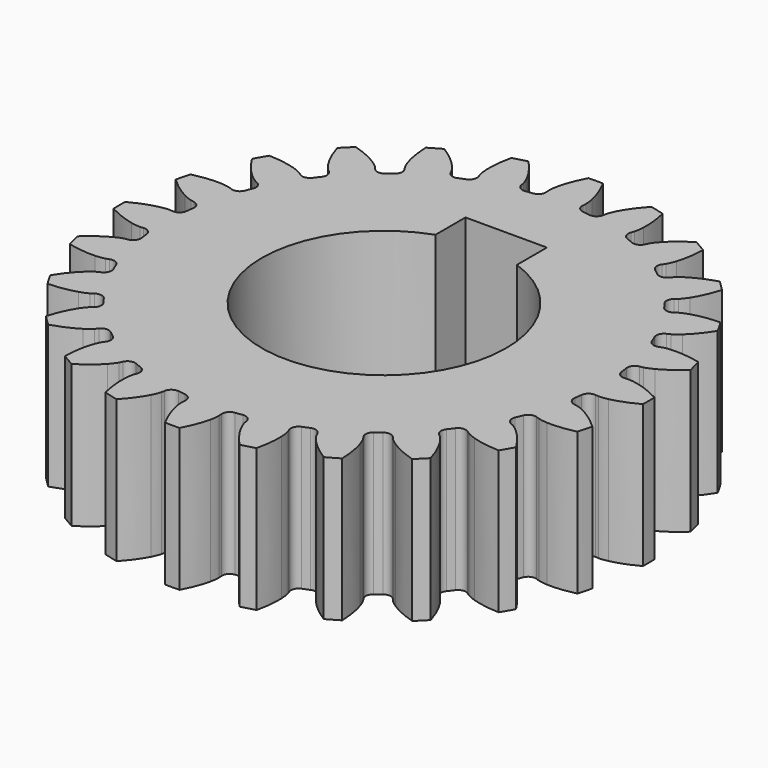
from build123d import *

# Parameters (mm, degrees)
PAD_DEPTH    = 7
POCKET_DEPTH = 7.001


with BuildPart() as part:
    # InvoluteGear → Pad (new body)
    with BuildSketch(Plane.XY):
        with BuildLine():
            Line((11.094087, -0.89338), (11.258987, -0.905908))
            add(Edge.make_bspline(
                [(11.258987, -0.905908), (11.309373, -0.907039), (11.461142, -0.904636), (11.714019, -0.851012)],
                knots=[0, 0, 0, 0, 1, 1, 1, 1], degree=3))
            add(Edge.make_bspline(
                [(11.714019, -0.851012), (12.016875, -0.785943), (12.453921, -0.648007), (12.996132, -0.35735)],
                knots=[0, 0, 0, 0, 1, 1, 1, 1], degree=3))
            ThreePointArc((12.996132, -0.35735), (13.000522, 0.000197), (12.995077, 0.35773))
            add(Edge.make_bspline(
                [(12.995077, 0.35773), (12.453921, 0.648007), (12.016875, 0.785943), (11.714019, 0.851012)],
                knots=[0, 0, 0, 0, 1, 1, 1, 1], degree=3))
            add(Edge.make_bspline(
                [(11.714019, 0.851012), (11.461142, 0.904636), (11.309373, 0.907039), (11.258987, 0.905908)],
                knots=[0, 0, 0, 0, 1, 1, 1, 1], degree=3))
            Line((11.258987, 0.905908), (11.094087, 0.89338))
            ThreePointArc((11.094087, 0.89338), (10.818411, 0.975916), (10.67963, 1.228005))
            ThreePointArc((10.67963, 1.228005), (10.658032, 1.403157), (10.633562, 1.57793))
            ThreePointArc((10.633562, 1.57793), (10.702369, 1.857349), (10.947289, 2.008422))
            Line((10.947289, 2.008422), (11.109812, 2.039001))
            add(Edge.make_bspline(
                [(11.109812, 2.039001), (11.158774, 2.050949), (11.30475, 2.09255), (11.535132, 2.209797)],
                knots=[0, 0, 0, 0, 1, 1, 1, 1], degree=3))
            add(Edge.make_bspline(
                [(11.535132, 2.209797), (11.810827, 2.351033), (12.19728, 2.597386), (12.645789, 3.018473)],
                knots=[0, 0, 0, 0, 1, 1, 1, 1], degree=3))
            ThreePointArc((12.645789, 3.018473), (12.557489, 3.364973), (12.459693, 3.708914))
            add(Edge.make_bspline(
                [(12.459693, 3.708914), (11.861848, 3.849238), (11.403993, 3.869359), (11.094616, 3.853825)],
                knots=[0, 0, 0, 0, 1, 1, 1, 1], degree=3))
            add(Edge.make_bspline(
                [(11.094616, 3.853825), (10.836476, 3.840174), (10.689256, 3.803213), (10.64088, 3.78908)],
                knots=[0, 0, 0, 0, 1, 1, 1, 1], degree=3))
            Line((10.64088, 3.78908), (10.484841, 3.7343))
            ThreePointArc((10.484841, 3.7343), (10.197197, 3.742673), (9.9979, 3.950253))
            ThreePointArc((9.9979, 3.950253), (9.931705, 4.113847), (9.862834, 4.276332))
            ThreePointArc((9.862834, 4.276332), (9.856977, 4.564038), (10.054452, 4.773353))
            Line((10.054452, 4.773353), (10.203522, 4.844954))
            add(Edge.make_bspline(
                [(10.203522, 4.844954), (10.247723, 4.869168), (10.377958, 4.947133), (10.570144, 5.120012)],
                knots=[0, 0, 0, 0, 1, 1, 1, 1], degree=3))
            add(Edge.make_bspline(
                [(10.570144, 5.120012), (10.799891, 5.327791), (11.109415, 5.66577), (11.433656, 6.188592)],
                knots=[0, 0, 0, 0, 1, 1, 1, 1], degree=3))
            ThreePointArc((11.433656, 6.188592), (11.258684, 6.500432), (11.075202, 6.807342))
            add(Edge.make_bspline(
                [(11.075202, 6.807342), (10.461409, 6.788151), (10.013948, 6.689085), (9.719133, 6.594007)],
                knots=[0, 0, 0, 0, 1, 1, 1, 1], degree=3))
            add(Edge.make_bspline(
                [(9.719133, 6.594007), (9.473322, 6.514009), (9.340685, 6.440205), (9.297615, 6.414032)],
                knots=[0, 0, 0, 0, 1, 1, 1, 1], degree=3))
            Line((9.297615, 6.414032), (9.161071, 6.320734))
            ThreePointArc((9.161071, 6.320734), (8.881061, 6.254374), (8.634829, 6.403299))
            ThreePointArc((8.634829, 6.403299), (8.528548, 6.544185), (8.41997, 6.683308))
            ThreePointArc((8.41997, 6.683308), (8.339849, 6.959695), (8.47642, 7.212989))
            Line((8.47642, 7.212989), (8.601879, 7.320732))
            add(Edge.make_bspline(
                [(8.601879, 7.320732), (8.638307, 7.355561), (8.743926, 7.464577), (8.884819, 7.681307)],
                knots=[0, 0, 0, 0, 1, 1, 1, 1], degree=3))
            add(Edge.make_bspline(
                [(8.884819, 7.681307), (9.05296, 7.941468), (9.264462, 8.348042), (9.442338, 8.936968)],
                knots=[0, 0, 0, 0, 1, 1, 1, 1], degree=3))
            ThreePointArc((9.442338, 8.936968), (9.192618, 9.192897), (8.935954, 9.44186))
            add(Edge.make_bspline(
                [(8.935954, 9.44186), (8.348042, 9.264462), (7.941468, 9.05296), (7.681307, 8.884819)],
                knots=[0, 0, 0, 0, 1, 1, 1, 1], degree=3))
            add(Edge.make_bspline(
                [(7.681307, 8.884819), (7.464577, 8.743926), (7.355561, 8.638307), (7.320732, 8.601879)],
                knots=[0, 0, 0, 0, 1, 1, 1, 1], degree=3))
            Line((7.320732, 8.601879), (7.212989, 8.47642))
            ThreePointArc((7.212989, 8.47642), (6.959695, 8.339849), (6.683308, 8.41997))
            ThreePointArc((6.683308, 8.41997), (6.544185, 8.528548), (6.403299, 8.634829))
            ThreePointArc((6.403299, 8.634829), (6.254374, 8.881061), (6.320734, 9.161071))
            Line((6.320734, 9.161071), (6.414032, 9.297615))
            add(Edge.make_bspline(
                [(6.414032, 9.297615), (6.440205, 9.340685), (6.514009, 9.473322), (6.594007, 9.719133)],
                knots=[0, 0, 0, 0, 1, 1, 1, 1], degree=3))
            add(Edge.make_bspline(
                [(6.594007, 9.719133), (6.689085, 10.013948), (6.788151, 10.461409), (6.807541, 11.076306)],
                knots=[0, 0, 0, 0, 1, 1, 1, 1], degree=3))
            ThreePointArc((6.807541, 11.076306), (6.500091, 11.258881), (6.187735, 11.432932))
            add(Edge.make_bspline(
                [(6.187735, 11.432932), (5.66577, 11.109415), (5.327791, 10.799891), (5.120012, 10.570144)],
                knots=[0, 0, 0, 0, 1, 1, 1, 1], degree=3))
            add(Edge.make_bspline(
                [(5.120012, 10.570144), (4.947133, 10.377958), (4.869168, 10.247723), (4.844954, 10.203522)],
                knots=[0, 0, 0, 0, 1, 1, 1, 1], degree=3))
            Line((4.844954, 10.203522), (4.773353, 10.054452))
            ThreePointArc((4.773353, 10.054452), (4.564038, 9.856977), (4.276332, 9.862834))
            ThreePointArc((4.276332, 9.862834), (4.113847, 9.931705), (3.950253, 9.9979))
            ThreePointArc((3.950253, 9.9979), (3.742673, 10.197197), (3.7343, 10.484841))
            Line((3.7343, 10.484841), (3.78908, 10.64088))
            add(Edge.make_bspline(
                [(3.78908, 10.64088), (3.803213, 10.689256), (3.840174, 10.836476), (3.853825, 11.094616)],
                knots=[0, 0, 0, 0, 1, 1, 1, 1], degree=3))
            add(Edge.make_bspline(
                [(3.853825, 11.094616), (3.869359, 11.403993), (3.849238, 11.861848), (3.708821, 12.460811)],
                knots=[0, 0, 0, 0, 1, 1, 1, 1], degree=3))
            ThreePointArc((3.708821, 12.460811), (3.364592, 12.557591), (3.017833, 12.644868))
            add(Edge.make_bspline(
                [(3.017833, 12.644868), (2.597386, 12.19728), (2.351033, 11.810827), (2.209797, 11.535132)],
                knots=[0, 0, 0, 0, 1, 1, 1, 1], degree=3))
            add(Edge.make_bspline(
                [(2.209797, 11.535132), (2.09255, 11.30475), (2.050949, 11.158774), (2.039001, 11.109812)],
                knots=[0, 0, 0, 0, 1, 1, 1, 1], degree=3))
            Line((2.039001, 11.109812), (2.008422, 10.947289))
            ThreePointArc((2.008422, 10.947289), (1.857349, 10.702369), (1.57793, 10.633562))
            ThreePointArc((1.57793, 10.633562), (1.403157, 10.658032), (1.228005, 10.67963))
            ThreePointArc((1.228005, 10.67963), (0.975916, 10.818411), (0.89338, 11.094087))
            Line((0.89338, 11.094087), (0.905908, 11.258987))
            add(Edge.make_bspline(
                [(0.905908, 11.258987), (0.907039, 11.309373), (0.904636, 11.461142), (0.851012, 11.714019)],
                knots=[0, 0, 0, 0, 1, 1, 1, 1], degree=3))
            add(Edge.make_bspline(
                [(0.851012, 11.714019), (0.785943, 12.016875), (0.648007, 12.453921), (0.35735, 12.996132)],
                knots=[0, 0, 0, 0, 1, 1, 1, 1], degree=3))
            ThreePointArc((0.35735, 12.996132), (-0.000197, 13.000522), (-0.35773, 12.995077))
            add(Edge.make_bspline(
                [(-0.35773, 12.995077), (-0.648007, 12.453921), (-0.785943, 12.016875), (-0.851012, 11.714019)],
                knots=[0, 0, 0, 0, 1, 1, 1, 1], degree=3))
            add(Edge.make_bspline(
                [(-0.851012, 11.714019), (-0.904636, 11.461142), (-0.907039, 11.309373), (-0.905908, 11.258987)],
                knots=[0, 0, 0, 0, 1, 1, 1, 1], degree=3))
            Line((-0.905908, 11.258987), (-0.89338, 11.094087))
            ThreePointArc((-0.89338, 11.094087), (-0.975916, 10.818411), (-1.228005, 10.67963))
            ThreePointArc((-1.228005, 10.67963), (-1.403157, 10.658032), (-1.57793, 10.633562))
            ThreePointArc((-1.57793, 10.633562), (-1.857349, 10.702369), (-2.008422, 10.947289))
            Line((-2.008422, 10.947289), (-2.039001, 11.109812))
            add(Edge.make_bspline(
                [(-2.039001, 11.109812), (-2.050949, 11.158774), (-2.09255, 11.30475), (-2.209797, 11.535132)],
                knots=[0, 0, 0, 0, 1, 1, 1, 1], degree=3))
            add(Edge.make_bspline(
                [(-2.209797, 11.535132), (-2.351033, 11.810827), (-2.597386, 12.19728), (-3.018473, 12.645789)],
                knots=[0, 0, 0, 0, 1, 1, 1, 1], degree=3))
            ThreePointArc((-3.018473, 12.645789), (-3.364973, 12.557489), (-3.708914, 12.459693))
            add(Edge.make_bspline(
                [(-3.708914, 12.459693), (-3.849238, 11.861848), (-3.869359, 11.403993), (-3.853825, 11.094616)],
                knots=[0, 0, 0, 0, 1, 1, 1, 1], degree=3))
            add(Edge.make_bspline(
                [(-3.853825, 11.094616), (-3.840174, 10.836476), (-3.803213, 10.689256), (-3.78908, 10.64088)],
                knots=[0, 0, 0, 0, 1, 1, 1, 1], degree=3))
            Line((-3.78908, 10.64088), (-3.7343, 10.484841))
            ThreePointArc((-3.7343, 10.484841), (-3.742673, 10.197197), (-3.950253, 9.9979))
            ThreePointArc((-3.950253, 9.9979), (-4.113847, 9.931705), (-4.276332, 9.862834))
            ThreePointArc((-4.276332, 9.862834), (-4.564038, 9.856977), (-4.773353, 10.054452))
            Line((-4.773353, 10.054452), (-4.844954, 10.203522))
            add(Edge.make_bspline(
                [(-4.844954, 10.203522), (-4.869168, 10.247723), (-4.947133, 10.377958), (-5.120012, 10.570144)],
                knots=[0, 0, 0, 0, 1, 1, 1, 1], degree=3))
            add(Edge.make_bspline(
                [(-5.120012, 10.570144), (-5.327791, 10.799891), (-5.66577, 11.109415), (-6.188592, 11.433656)],
                knots=[0, 0, 0, 0, 1, 1, 1, 1], degree=3))
            ThreePointArc((-6.188592, 11.433656), (-6.500432, 11.258684), (-6.807342, 11.075202))
            add(Edge.make_bspline(
                [(-6.807342, 11.075202), (-6.788151, 10.461409), (-6.689085, 10.013948), (-6.594007, 9.719133)],
                knots=[0, 0, 0, 0, 1, 1, 1, 1], degree=3))
            add(Edge.make_bspline(
                [(-6.594007, 9.719133), (-6.514009, 9.473322), (-6.440205, 9.340685), (-6.414032, 9.297615)],
                knots=[0, 0, 0, 0, 1, 1, 1, 1], degree=3))
            Line((-6.414032, 9.297615), (-6.320734, 9.161071))
            ThreePointArc((-6.320734, 9.161071), (-6.254374, 8.881061), (-6.403299, 8.634829))
            ThreePointArc((-6.403299, 8.634829), (-6.544185, 8.528548), (-6.683308, 8.41997))
            ThreePointArc((-6.683308, 8.41997), (-6.959695, 8.339849), (-7.212989, 8.47642))
            Line((-7.212989, 8.47642), (-7.320732, 8.601879))
            add(Edge.make_bspline(
                [(-7.320732, 8.601879), (-7.355561, 8.638307), (-7.464577, 8.743926), (-7.681307, 8.884819)],
                knots=[0, 0, 0, 0, 1, 1, 1, 1], degree=3))
            add(Edge.make_bspline(
                [(-7.681307, 8.884819), (-7.941468, 9.05296), (-8.348042, 9.264462), (-8.936968, 9.442338)],
                knots=[0, 0, 0, 0, 1, 1, 1, 1], degree=3))
            ThreePointArc((-8.936968, 9.442338), (-9.192897, 9.192618), (-9.44186, 8.935954))
            add(Edge.make_bspline(
                [(-9.44186, 8.935954), (-9.264462, 8.348042), (-9.05296, 7.941468), (-8.884819, 7.681307)],
                knots=[0, 0, 0, 0, 1, 1, 1, 1], degree=3))
            add(Edge.make_bspline(
                [(-8.884819, 7.681307), (-8.743926, 7.464577), (-8.638307, 7.355561), (-8.601879, 7.320732)],
                knots=[0, 0, 0, 0, 1, 1, 1, 1], degree=3))
            Line((-8.601879, 7.320732), (-8.47642, 7.212989))
            ThreePointArc((-8.47642, 7.212989), (-8.339849, 6.959695), (-8.41997, 6.683308))
            ThreePointArc((-8.41997, 6.683308), (-8.528548, 6.544185), (-8.634829, 6.403299))
            ThreePointArc((-8.634829, 6.403299), (-8.881061, 6.254374), (-9.161071, 6.320734))
            Line((-9.161071, 6.320734), (-9.297615, 6.414032))
            add(Edge.make_bspline(
                [(-9.297615, 6.414032), (-9.340685, 6.440205), (-9.473322, 6.514009), (-9.719133, 6.594007)],
                knots=[0, 0, 0, 0, 1, 1, 1, 1], degree=3))
            add(Edge.make_bspline(
                [(-9.719133, 6.594007), (-10.013948, 6.689085), (-10.461409, 6.788151), (-11.076306, 6.807541)],
                knots=[0, 0, 0, 0, 1, 1, 1, 1], degree=3))
            ThreePointArc((-11.076306, 6.807541), (-11.258881, 6.500091), (-11.432932, 6.187735))
            add(Edge.make_bspline(
                [(-11.432932, 6.187735), (-11.109415, 5.66577), (-10.799891, 5.327791), (-10.570144, 5.120012)],
                knots=[0, 0, 0, 0, 1, 1, 1, 1], degree=3))
            add(Edge.make_bspline(
                [(-10.570144, 5.120012), (-10.377958, 4.947133), (-10.247723, 4.869168), (-10.203522, 4.844954)],
                knots=[0, 0, 0, 0, 1, 1, 1, 1], degree=3))
            Line((-10.203522, 4.844954), (-10.054452, 4.773353))
            ThreePointArc((-10.054452, 4.773353), (-9.856977, 4.564038), (-9.862834, 4.276332))
            ThreePointArc((-9.862834, 4.276332), (-9.931705, 4.113847), (-9.9979, 3.950253))
            ThreePointArc((-9.9979, 3.950253), (-10.197197, 3.742673), (-10.484841, 3.7343))
            Line((-10.484841, 3.7343), (-10.64088, 3.78908))
            add(Edge.make_bspline(
                [(-10.64088, 3.78908), (-10.689256, 3.803213), (-10.836476, 3.840174), (-11.094616, 3.853825)],
                knots=[0, 0, 0, 0, 1, 1, 1, 1], degree=3))
            add(Edge.make_bspline(
                [(-11.094616, 3.853825), (-11.403993, 3.869359), (-11.861848, 3.849238), (-12.460811, 3.708821)],
                knots=[0, 0, 0, 0, 1, 1, 1, 1], degree=3))
            ThreePointArc((-12.460811, 3.708821), (-12.557591, 3.364592), (-12.644868, 3.017833))
            add(Edge.make_bspline(
                [(-12.644868, 3.017833), (-12.19728, 2.597386), (-11.810827, 2.351033), (-11.535132, 2.209797)],
                knots=[0, 0, 0, 0, 1, 1, 1, 1], degree=3))
            add(Edge.make_bspline(
                [(-11.535132, 2.209797), (-11.30475, 2.09255), (-11.158774, 2.050949), (-11.109812, 2.039001)],
                knots=[0, 0, 0, 0, 1, 1, 1, 1], degree=3))
            Line((-11.109812, 2.039001), (-10.947289, 2.008422))
            ThreePointArc((-10.947289, 2.008422), (-10.702369, 1.857349), (-10.633562, 1.57793))
            ThreePointArc((-10.633562, 1.57793), (-10.658032, 1.403157), (-10.67963, 1.228005))
            ThreePointArc((-10.67963, 1.228005), (-10.818411, 0.975916), (-11.094087, 0.89338))
            Line((-11.094087, 0.89338), (-11.258987, 0.905908))
            add(Edge.make_bspline(
                [(-11.258987, 0.905908), (-11.309373, 0.907039), (-11.461142, 0.904636), (-11.714019, 0.851012)],
                knots=[0, 0, 0, 0, 1, 1, 1, 1], degree=3))
            add(Edge.make_bspline(
                [(-11.714019, 0.851012), (-12.016875, 0.785943), (-12.453921, 0.648007), (-12.996132, 0.35735)],
                knots=[0, 0, 0, 0, 1, 1, 1, 1], degree=3))
            ThreePointArc((-12.996132, 0.35735), (-13.000522, -0.000197), (-12.995077, -0.35773))
            add(Edge.make_bspline(
                [(-12.995077, -0.35773), (-12.453921, -0.648007), (-12.016875, -0.785943), (-11.714019, -0.851012)],
                knots=[0, 0, 0, 0, 1, 1, 1, 1], degree=3))
            add(Edge.make_bspline(
                [(-11.714019, -0.851012), (-11.461142, -0.904636), (-11.309373, -0.907039), (-11.258987, -0.905908)],
                knots=[0, 0, 0, 0, 1, 1, 1, 1], degree=3))
            Line((-11.258987, -0.905908), (-11.094087, -0.89338))
            ThreePointArc((-11.094087, -0.89338), (-10.818411, -0.975916), (-10.67963, -1.228005))
            ThreePointArc((-10.67963, -1.228005), (-10.658032, -1.403157), (-10.633562, -1.57793))
            ThreePointArc((-10.633562, -1.57793), (-10.702369, -1.857349), (-10.947289, -2.008422))
            Line((-10.947289, -2.008422), (-11.109812, -2.039001))
            add(Edge.make_bspline(
                [(-11.109812, -2.039001), (-11.158774, -2.050949), (-11.30475, -2.09255), (-11.535132, -2.209797)],
                knots=[0, 0, 0, 0, 1, 1, 1, 1], degree=3))
            add(Edge.make_bspline(
                [(-11.535132, -2.209797), (-11.810827, -2.351033), (-12.19728, -2.597386), (-12.645789, -3.018473)],
                knots=[0, 0, 0, 0, 1, 1, 1, 1], degree=3))
            ThreePointArc((-12.645789, -3.018473), (-12.557489, -3.364973), (-12.459693, -3.708914))
            add(Edge.make_bspline(
                [(-12.459693, -3.708914), (-11.861848, -3.849238), (-11.403993, -3.869359), (-11.094616, -3.853825)],
                knots=[0, 0, 0, 0, 1, 1, 1, 1], degree=3))
            add(Edge.make_bspline(
                [(-11.094616, -3.853825), (-10.836476, -3.840174), (-10.689256, -3.803213), (-10.64088, -3.78908)],
                knots=[0, 0, 0, 0, 1, 1, 1, 1], degree=3))
            Line((-10.64088, -3.78908), (-10.484841, -3.7343))
            ThreePointArc((-10.484841, -3.7343), (-10.197197, -3.742673), (-9.9979, -3.950253))
            ThreePointArc((-9.9979, -3.950253), (-9.931705, -4.113847), (-9.862834, -4.276332))
            ThreePointArc((-9.862834, -4.276332), (-9.856977, -4.564038), (-10.054452, -4.773353))
            Line((-10.054452, -4.773353), (-10.203522, -4.844954))
            add(Edge.make_bspline(
                [(-10.203522, -4.844954), (-10.247723, -4.869168), (-10.377958, -4.947133), (-10.570144, -5.120012)],
                knots=[0, 0, 0, 0, 1, 1, 1, 1], degree=3))
            add(Edge.make_bspline(
                [(-10.570144, -5.120012), (-10.799891, -5.327791), (-11.109415, -5.66577), (-11.433656, -6.188592)],
                knots=[0, 0, 0, 0, 1, 1, 1, 1], degree=3))
            ThreePointArc((-11.433656, -6.188592), (-11.258684, -6.500432), (-11.075202, -6.807342))
            add(Edge.make_bspline(
                [(-11.075202, -6.807342), (-10.461409, -6.788151), (-10.013948, -6.689085), (-9.719133, -6.594007)],
                knots=[0, 0, 0, 0, 1, 1, 1, 1], degree=3))
            add(Edge.make_bspline(
                [(-9.719133, -6.594007), (-9.473322, -6.514009), (-9.340685, -6.440205), (-9.297615, -6.414032)],
                knots=[0, 0, 0, 0, 1, 1, 1, 1], degree=3))
            Line((-9.297615, -6.414032), (-9.161071, -6.320734))
            ThreePointArc((-9.161071, -6.320734), (-8.881061, -6.254374), (-8.634829, -6.403299))
            ThreePointArc((-8.634829, -6.403299), (-8.528548, -6.544185), (-8.41997, -6.683308))
            ThreePointArc((-8.41997, -6.683308), (-8.339849, -6.959695), (-8.47642, -7.212989))
            Line((-8.47642, -7.212989), (-8.601879, -7.320732))
            add(Edge.make_bspline(
                [(-8.601879, -7.320732), (-8.638307, -7.355561), (-8.743926, -7.464577), (-8.884819, -7.681307)],
                knots=[0, 0, 0, 0, 1, 1, 1, 1], degree=3))
            add(Edge.make_bspline(
                [(-8.884819, -7.681307), (-9.05296, -7.941468), (-9.264462, -8.348042), (-9.442338, -8.936968)],
                knots=[0, 0, 0, 0, 1, 1, 1, 1], degree=3))
            ThreePointArc((-9.442338, -8.936968), (-9.192618, -9.192897), (-8.935954, -9.44186))
            add(Edge.make_bspline(
                [(-8.935954, -9.44186), (-8.348042, -9.264462), (-7.941468, -9.05296), (-7.681307, -8.884819)],
                knots=[0, 0, 0, 0, 1, 1, 1, 1], degree=3))
            add(Edge.make_bspline(
                [(-7.681307, -8.884819), (-7.464577, -8.743926), (-7.355561, -8.638307), (-7.320732, -8.601879)],
                knots=[0, 0, 0, 0, 1, 1, 1, 1], degree=3))
            Line((-7.320732, -8.601879), (-7.212989, -8.47642))
            ThreePointArc((-7.212989, -8.47642), (-6.959695, -8.339849), (-6.683308, -8.41997))
            ThreePointArc((-6.683308, -8.41997), (-6.544185, -8.528548), (-6.403299, -8.634829))
            ThreePointArc((-6.403299, -8.634829), (-6.254374, -8.881061), (-6.320734, -9.161071))
            Line((-6.320734, -9.161071), (-6.414032, -9.297615))
            add(Edge.make_bspline(
                [(-6.414032, -9.297615), (-6.440205, -9.340685), (-6.514009, -9.473322), (-6.594007, -9.719133)],
                knots=[0, 0, 0, 0, 1, 1, 1, 1], degree=3))
            add(Edge.make_bspline(
                [(-6.594007, -9.719133), (-6.689085, -10.013948), (-6.788151, -10.461409), (-6.807541, -11.076306)],
                knots=[0, 0, 0, 0, 1, 1, 1, 1], degree=3))
            ThreePointArc((-6.807541, -11.076306), (-6.500091, -11.258881), (-6.187735, -11.432932))
            add(Edge.make_bspline(
                [(-6.187735, -11.432932), (-5.66577, -11.109415), (-5.327791, -10.799891), (-5.120012, -10.570144)],
                knots=[0, 0, 0, 0, 1, 1, 1, 1], degree=3))
            add(Edge.make_bspline(
                [(-5.120012, -10.570144), (-4.947133, -10.377958), (-4.869168, -10.247723), (-4.844954, -10.203522)],
                knots=[0, 0, 0, 0, 1, 1, 1, 1], degree=3))
            Line((-4.844954, -10.203522), (-4.773353, -10.054452))
            ThreePointArc((-4.773353, -10.054452), (-4.564038, -9.856977), (-4.276332, -9.862834))
            ThreePointArc((-4.276332, -9.862834), (-4.113847, -9.931705), (-3.950253, -9.9979))
            ThreePointArc((-3.950253, -9.9979), (-3.742673, -10.197197), (-3.7343, -10.484841))
            Line((-3.7343, -10.484841), (-3.78908, -10.64088))
            add(Edge.make_bspline(
                [(-3.78908, -10.64088), (-3.803213, -10.689256), (-3.840174, -10.836476), (-3.853825, -11.094616)],
                knots=[0, 0, 0, 0, 1, 1, 1, 1], degree=3))
            add(Edge.make_bspline(
                [(-3.853825, -11.094616), (-3.869359, -11.403993), (-3.849238, -11.861848), (-3.708821, -12.460811)],
                knots=[0, 0, 0, 0, 1, 1, 1, 1], degree=3))
            ThreePointArc((-3.708821, -12.460811), (-3.364592, -12.557591), (-3.017833, -12.644868))
            add(Edge.make_bspline(
                [(-3.017833, -12.644868), (-2.597386, -12.19728), (-2.351033, -11.810827), (-2.209797, -11.535132)],
                knots=[0, 0, 0, 0, 1, 1, 1, 1], degree=3))
            add(Edge.make_bspline(
                [(-2.209797, -11.535132), (-2.09255, -11.30475), (-2.050949, -11.158774), (-2.039001, -11.109812)],
                knots=[0, 0, 0, 0, 1, 1, 1, 1], degree=3))
            Line((-2.039001, -11.109812), (-2.008422, -10.947289))
            ThreePointArc((-2.008422, -10.947289), (-1.857349, -10.702369), (-1.57793, -10.633562))
            ThreePointArc((-1.57793, -10.633562), (-1.403157, -10.658032), (-1.228005, -10.67963))
            ThreePointArc((-1.228005, -10.67963), (-0.975916, -10.818411), (-0.89338, -11.094087))
            Line((-0.89338, -11.094087), (-0.905908, -11.258987))
            add(Edge.make_bspline(
                [(-0.905908, -11.258987), (-0.907039, -11.309373), (-0.904636, -11.461142), (-0.851012, -11.714019)],
                knots=[0, 0, 0, 0, 1, 1, 1, 1], degree=3))
            add(Edge.make_bspline(
                [(-0.851012, -11.714019), (-0.785943, -12.016875), (-0.648007, -12.453921), (-0.35735, -12.996132)],
                knots=[0, 0, 0, 0, 1, 1, 1, 1], degree=3))
            ThreePointArc((-0.35735, -12.996132), (0.000197, -13.000522), (0.35773, -12.995077))
            add(Edge.make_bspline(
                [(0.35773, -12.995077), (0.648007, -12.453921), (0.785943, -12.016875), (0.851012, -11.714019)],
                knots=[0, 0, 0, 0, 1, 1, 1, 1], degree=3))
            add(Edge.make_bspline(
                [(0.851012, -11.714019), (0.904636, -11.461142), (0.907039, -11.309373), (0.905908, -11.258987)],
                knots=[0, 0, 0, 0, 1, 1, 1, 1], degree=3))
            Line((0.905908, -11.258987), (0.89338, -11.094087))
            ThreePointArc((0.89338, -11.094087), (0.975916, -10.818411), (1.228005, -10.67963))
            ThreePointArc((1.228005, -10.67963), (1.403157, -10.658032), (1.57793, -10.633562))
            ThreePointArc((1.57793, -10.633562), (1.857349, -10.702369), (2.008422, -10.947289))
            Line((2.008422, -10.947289), (2.039001, -11.109812))
            add(Edge.make_bspline(
                [(2.039001, -11.109812), (2.050949, -11.158774), (2.09255, -11.30475), (2.209797, -11.535132)],
                knots=[0, 0, 0, 0, 1, 1, 1, 1], degree=3))
            add(Edge.make_bspline(
                [(2.209797, -11.535132), (2.351033, -11.810827), (2.597386, -12.19728), (3.018473, -12.645789)],
                knots=[0, 0, 0, 0, 1, 1, 1, 1], degree=3))
            ThreePointArc((3.018473, -12.645789), (3.364973, -12.557489), (3.708914, -12.459693))
            add(Edge.make_bspline(
                [(3.708914, -12.459693), (3.849238, -11.861848), (3.869359, -11.403993), (3.853825, -11.094616)],
                knots=[0, 0, 0, 0, 1, 1, 1, 1], degree=3))
            add(Edge.make_bspline(
                [(3.853825, -11.094616), (3.840174, -10.836476), (3.803213, -10.689256), (3.78908, -10.64088)],
                knots=[0, 0, 0, 0, 1, 1, 1, 1], degree=3))
            Line((3.78908, -10.64088), (3.7343, -10.484841))
            ThreePointArc((3.7343, -10.484841), (3.742673, -10.197197), (3.950253, -9.9979))
            ThreePointArc((3.950253, -9.9979), (4.113847, -9.931705), (4.276332, -9.862834))
            ThreePointArc((4.276332, -9.862834), (4.564038, -9.856977), (4.773353, -10.054452))
            Line((4.773353, -10.054452), (4.844954, -10.203522))
            add(Edge.make_bspline(
                [(4.844954, -10.203522), (4.869168, -10.247723), (4.947133, -10.377958), (5.120012, -10.570144)],
                knots=[0, 0, 0, 0, 1, 1, 1, 1], degree=3))
            add(Edge.make_bspline(
                [(5.120012, -10.570144), (5.327791, -10.799891), (5.66577, -11.109415), (6.188592, -11.433656)],
                knots=[0, 0, 0, 0, 1, 1, 1, 1], degree=3))
            ThreePointArc((6.188592, -11.433656), (6.500432, -11.258684), (6.807342, -11.075202))
            add(Edge.make_bspline(
                [(6.807342, -11.075202), (6.788151, -10.461409), (6.689085, -10.013948), (6.594007, -9.719133)],
                knots=[0, 0, 0, 0, 1, 1, 1, 1], degree=3))
            add(Edge.make_bspline(
                [(6.594007, -9.719133), (6.514009, -9.473322), (6.440205, -9.340685), (6.414032, -9.297615)],
                knots=[0, 0, 0, 0, 1, 1, 1, 1], degree=3))
            Line((6.414032, -9.297615), (6.320734, -9.161071))
            ThreePointArc((6.320734, -9.161071), (6.254374, -8.881061), (6.403299, -8.634829))
            ThreePointArc((6.403299, -8.634829), (6.544185, -8.528548), (6.683308, -8.41997))
            ThreePointArc((6.683308, -8.41997), (6.959695, -8.339849), (7.212989, -8.47642))
            Line((7.212989, -8.47642), (7.320732, -8.601879))
            add(Edge.make_bspline(
                [(7.320732, -8.601879), (7.355561, -8.638307), (7.464577, -8.743926), (7.681307, -8.884819)],
                knots=[0, 0, 0, 0, 1, 1, 1, 1], degree=3))
            add(Edge.make_bspline(
                [(7.681307, -8.884819), (7.941468, -9.05296), (8.348042, -9.264462), (8.936968, -9.442338)],
                knots=[0, 0, 0, 0, 1, 1, 1, 1], degree=3))
            ThreePointArc((8.936968, -9.442338), (9.192897, -9.192618), (9.44186, -8.935954))
            add(Edge.make_bspline(
                [(9.44186, -8.935954), (9.264462, -8.348042), (9.05296, -7.941468), (8.884819, -7.681307)],
                knots=[0, 0, 0, 0, 1, 1, 1, 1], degree=3))
            add(Edge.make_bspline(
                [(8.884819, -7.681307), (8.743926, -7.464577), (8.638307, -7.355561), (8.601879, -7.320732)],
                knots=[0, 0, 0, 0, 1, 1, 1, 1], degree=3))
            Line((8.601879, -7.320732), (8.47642, -7.212989))
            ThreePointArc((8.47642, -7.212989), (8.339849, -6.959695), (8.41997, -6.683308))
            ThreePointArc((8.41997, -6.683308), (8.528548, -6.544185), (8.634829, -6.403299))
            ThreePointArc((8.634829, -6.403299), (8.881061, -6.254374), (9.161071, -6.320734))
            Line((9.161071, -6.320734), (9.297615, -6.414032))
            add(Edge.make_bspline(
                [(9.297615, -6.414032), (9.340685, -6.440205), (9.473322, -6.514009), (9.719133, -6.594007)],
                knots=[0, 0, 0, 0, 1, 1, 1, 1], degree=3))
            add(Edge.make_bspline(
                [(9.719133, -6.594007), (10.013948, -6.689085), (10.461409, -6.788151), (11.076306, -6.807541)],
                knots=[0, 0, 0, 0, 1, 1, 1, 1], degree=3))
            ThreePointArc((11.076306, -6.807541), (11.258881, -6.500091), (11.432932, -6.187735))
            add(Edge.make_bspline(
                [(11.432932, -6.187735), (11.109415, -5.66577), (10.799891, -5.327791), (10.570144, -5.120012)],
                knots=[0, 0, 0, 0, 1, 1, 1, 1], degree=3))
            add(Edge.make_bspline(
                [(10.570144, -5.120012), (10.377958, -4.947133), (10.247723, -4.869168), (10.203522, -4.844954)],
                knots=[0, 0, 0, 0, 1, 1, 1, 1], degree=3))
            Line((10.203522, -4.844954), (10.054452, -4.773353))
            ThreePointArc((10.054452, -4.773353), (9.856977, -4.564038), (9.862834, -4.276332))
            ThreePointArc((9.862834, -4.276332), (9.931705, -4.113847), (9.9979, -3.950253))
            ThreePointArc((9.9979, -3.950253), (10.197197, -3.742673), (10.484841, -3.7343))
            Line((10.484841, -3.7343), (10.64088, -3.78908))
            add(Edge.make_bspline(
                [(10.64088, -3.78908), (10.689256, -3.803213), (10.836476, -3.840174), (11.094616, -3.853825)],
                knots=[0, 0, 0, 0, 1, 1, 1, 1], degree=3))
            add(Edge.make_bspline(
                [(11.094616, -3.853825), (11.403993, -3.869359), (11.861848, -3.849238), (12.460811, -3.708821)],
                knots=[0, 0, 0, 0, 1, 1, 1, 1], degree=3))
            ThreePointArc((12.460811, -3.708821), (12.557591, -3.364592), (12.644868, -3.017833))
            add(Edge.make_bspline(
                [(12.644868, -3.017833), (12.19728, -2.597386), (11.810827, -2.351033), (11.535132, -2.209797)],
                knots=[0, 0, 0, 0, 1, 1, 1, 1], degree=3))
            add(Edge.make_bspline(
                [(11.535132, -2.209797), (11.30475, -2.09255), (11.158774, -2.050949), (11.109812, -2.039001)],
                knots=[0, 0, 0, 0, 1, 1, 1, 1], degree=3))
            Line((11.109812, -2.039001), (10.947289, -2.008422))
            ThreePointArc((10.947289, -2.008422), (10.702369, -1.857349), (10.633562, -1.57793))
            ThreePointArc((10.633562, -1.57793), (10.658032, -1.403157), (10.67963, -1.228005))
            ThreePointArc((10.67963, -1.228005), (10.818411, -0.975916), (11.094087, -0.89338))
        make_face()
    extrude(amount=PAD_DEPTH)

    # Sketch (on Face242 of Pad) → Pocket (cut, through all)
    with BuildSketch(Plane.XY.offset(7)):
        with BuildLine():
            ThreePointArc((-2, 5.656854), (0, -6), (2, 5.656854))
            Line((2, 7.5), (2, 5.656854))
            Line((-2, 7.5), (2, 7.5))
            Line((-2, 7.5), (-2, 5.656854))
        make_face()
    extrude(amount=-POCKET_DEPTH, mode=Mode.SUBTRACT)


solid = part.part
